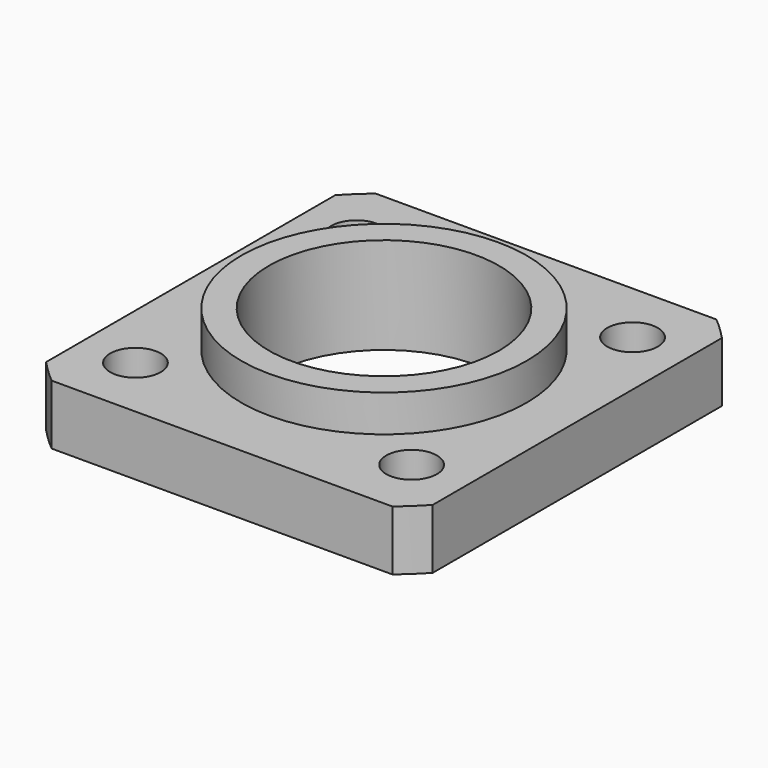
from build123d import *

# Parameters (mm, degrees)
F1_DEPTH = 13
F2_R     = 31
F3_DEPTH = 8
F4_D     = 50
F6_D     = 11


with BuildPart() as f1:
    # F0 (on Top) → F1 (new body)
    with BuildSketch(Plane.XY):
        with BuildLine():
            Line((37.016888, 44), (-37.016888, 44))
            ThreePointArc((-37.016888, 44), (-39.579121, 41.710228), (-42, 39.271491))
            Line((-42, 39.271491), (-42, -39.271491))
            ThreePointArc((-42, -39.271491), (-39.579121, -41.710228), (-37.016888, -44))
            Line((-37.016888, -44), (37.016888, -44))
            ThreePointArc((37.016888, -44), (39.579121, -41.710228), (42, -39.271491))
            Line((42, -39.271491), (42, 39.271491))
            ThreePointArc((42, 39.271491), (39.579121, 41.710228), (37.016888, 44))
        make_face()
    extrude(amount=F1_DEPTH)

    # F2 (on face) → F3 (join)
    with BuildSketch(Plane.XY.offset(13)):
        Circle(F2_R)
    extrude(amount=F3_DEPTH)

    # F4 (through all)
    with Locations(Plane(origin=(0, 0, 0), x_dir=(1, 0, 0), z_dir=(0, 0, -1))):
        with Locations((0, 0)):
            Hole(F4_D / 2)

    # F6 (through all)
    with Locations(Plane.XY.offset(13)):
        with Locations((-30, 30), (30, 30), (-30, -30), (30, -30)):
            Hole(F6_D / 2)


solid = f1.part
